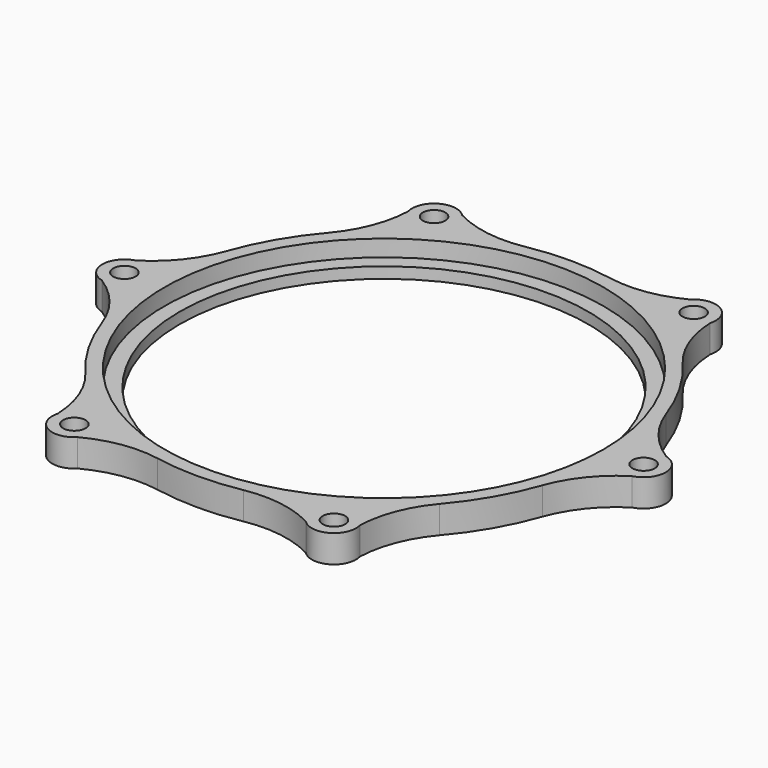
from build123d import *

# Parameters (mm, degrees)
F0_R     = 39.75
F0_R_2   = 37
F1_DEPTH = 2
F0_R_3   = 2.025
F2_DEPTH = 5


with BuildPart() as f1:
    # F0 (on Top) → F1 (new body)
    with BuildSketch(Plane.XY):
        Circle(F0_R)
        Circle(F0_R_2, mode=Mode.SUBTRACT)
    extrude(amount=F1_DEPTH)

    # F0 (on Top) → F2 (join)
    with BuildSketch(Plane.XY):
        with BuildLine():
            ThreePointArc((-27.354102, 39.632728), (-28.694314, 33.185179), (-32.055879, 27.522411))
            ThreePointArc((-32.055879, 27.522411), (-36.589573, 21.125), (-39.863047, 14))
            ThreePointArc((-39.863047, 14), (-43.086364, 8.257415), (-48, 3.872983))
            ThreePointArc((-48, 3.872983), (-51, 0), (-48, -3.872983))
            ThreePointArc((-48, -3.872983), (-43.086364, -8.257415), (-39.863047, -14))
            ThreePointArc((-39.863047, -14), (-36.589573, -21.125), (-32.055879, -27.522411))
            ThreePointArc((-32.055879, -27.522411), (-28.694314, -33.185179), (-27.354102, -39.632728))
            ThreePointArc((-27.354102, -39.632728), (-25.5, -44.167296), (-20.645898, -43.505711))
            ThreePointArc((-20.645898, -43.505711), (-14.392051, -41.442594), (-7.807168, -41.522411))
            ThreePointArc((-7.807168, -41.522411), (0, -42.25), (7.807168, -41.522411))
            ThreePointArc((7.807168, -41.522411), (14.392051, -41.442594), (20.645898, -43.505711))
            ThreePointArc((20.645898, -43.505711), (25.5, -44.167296), (27.354102, -39.632728))
            ThreePointArc((27.354102, -39.632728), (28.694314, -33.185179), (32.055879, -27.522411))
            ThreePointArc((32.055879, -27.522411), (36.589573, -21.125), (39.863047, -14))
            ThreePointArc((39.863047, -14), (43.086364, -8.257415), (48, -3.872983))
            ThreePointArc((48, -3.872983), (51, 0), (48, 3.872983))
            ThreePointArc((48, 3.872983), (43.086364, 8.257415), (39.863047, 14))
            ThreePointArc((39.863047, 14), (36.589573, 21.125), (32.055879, 27.522411))
            ThreePointArc((32.055879, 27.522411), (28.694314, 33.185179), (27.354102, 39.632728))
            ThreePointArc((27.354102, 39.632728), (25.5, 44.167296), (20.645898, 43.505711))
            ThreePointArc((20.645898, 43.505711), (14.392051, 41.442594), (7.807168, 41.522411))
            ThreePointArc((7.807168, 41.522411), (0, 42.25), (-7.807168, 41.522411))
            ThreePointArc((-7.807168, 41.522411), (-14.392051, 41.442594), (-20.645898, 43.505711))
            ThreePointArc((-20.645898, 43.505711), (-25.5, 44.167296), (-27.354102, 39.632728))
        make_face()
        with Locations((-23.5, -40.703194)):
            Circle(F0_R_3, mode=Mode.SUBTRACT)
        with Locations((23.5, -40.703194)):
            Circle(F0_R_3, mode=Mode.SUBTRACT)
        with Locations((-47, 0)):
            Circle(F0_R_3, mode=Mode.SUBTRACT)
        with Locations((-23.5, 40.703194)):
            Circle(F0_R_3, mode=Mode.SUBTRACT)
        Circle(F0_R, mode=Mode.SUBTRACT)
        with Locations((47, 0)):
            Circle(F0_R_3, mode=Mode.SUBTRACT)
        with Locations((23.5, 40.703194)):
            Circle(F0_R_3, mode=Mode.SUBTRACT)
    extrude(amount=F2_DEPTH)


solid = f1.part
